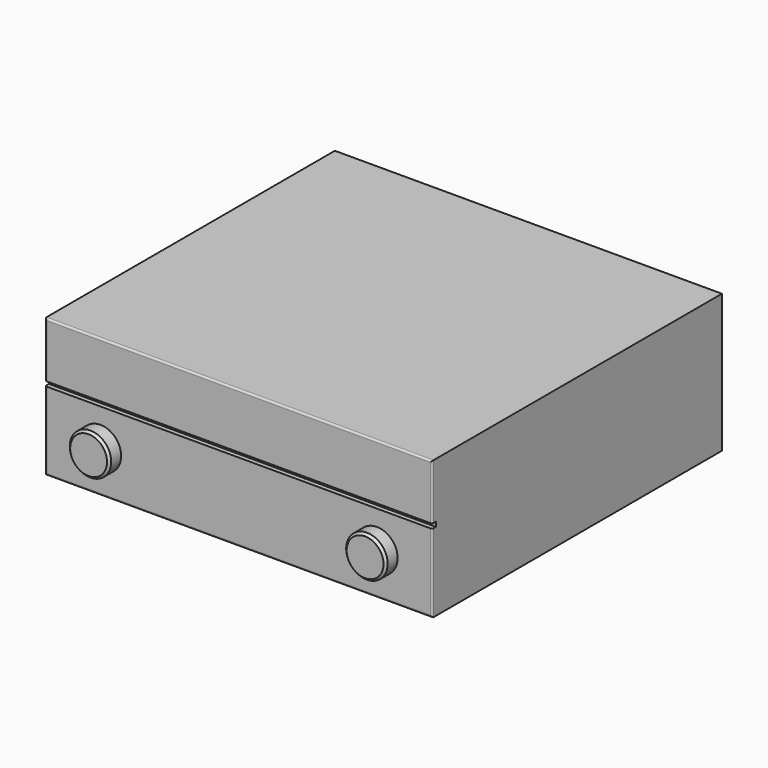
from build123d import *

# Parameters (mm, degrees)
F0_W     = 420
F0_H     = 150
F1_DEPTH = 393
F2_R     = 2
F3_R     = 22.5
F4_DEPTH = 16
F5_SIZE  = 2.5
F6_W     = 5
F6_H     = 5
F7_DEPTH = 250


with BuildPart() as f1:
    # F0 (on Front) → F1 (new body)
    with BuildSketch(Plane.XZ):
        Rectangle(F0_W, F0_H)
    extrude(amount=-F1_DEPTH)

    # F2
    f2_edges = [f1.edges().sort_by_distance(p)[0] for p in [
        (210, 0, 0),
        (0, 0, 75),
        (-210, 0, 0),
        (0, 0, -75),
    ]]
    fillet(f2_edges, radius=F2_R)

    # F3 (on face) → F4 (join)
    with BuildSketch(Plane.XZ):
        with Locations((-150, -30)):
            Circle(F3_R)
        with Locations((150, -30)):
            Circle(F3_R)
    extrude(amount=F4_DEPTH)

    # F5
    f5_edges = [f1.edges().sort_by_distance(p)[0] for p in [
        (-172.5, -16, -30),
        (127.5, -16, -30),
    ]]
    chamfer(f5_edges, length=F5_SIZE)

    # F6 (on Right) → F7 (cut, symmetric)
    with BuildSketch(Plane.YZ):
        with Locations((2.5, 12.5)):
            Rectangle(F6_W, F6_H)
    extrude(amount=F7_DEPTH, both=True, mode=Mode.SUBTRACT)


solid = f1.part
